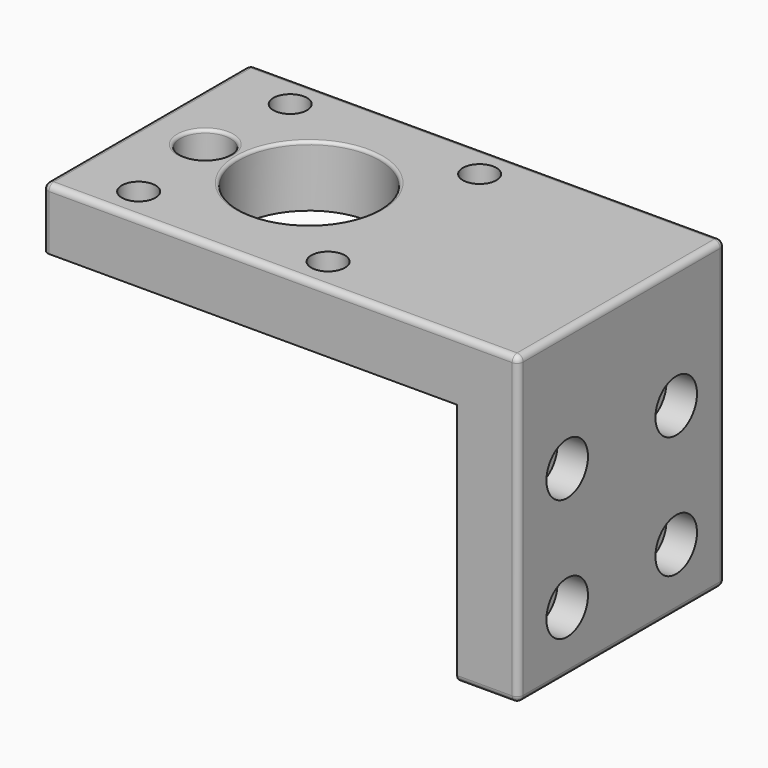
from build123d import *

# Parameters (mm, degrees)
F0_W     = 42.3
F0_H     = 42.3
F0_R     = 2.75
F0_R_2   = 4.1
F0_R_3   = 11.5
F0_W_2   = 20
F0_W_3   = 5.5
F0_W_4   = 10
F0_R_4   = 1.55
F1_DEPTH = 10
F2_DEPTH = 40
F3_R     = 2.5
F4_DEPTH = 77.801
F3_R_2   = 4.25
F5_DEPTH = 5
F7_R     = 1
F8_R     = 0.5
F6_R     = 2.75
F6_R_2   = 1.55
F9_DEPTH = 3


with BuildPart() as f1:
    # F0 (on Top) → F1 (new body)
    with BuildSketch(Plane.XY):
        Rectangle(F0_W, F0_H)
        with Locations((-15.5, -15.5)):
            Circle(F0_R, mode=Mode.SUBTRACT)
        with Locations((15.5, -15.5)):
            Circle(F0_R, mode=Mode.SUBTRACT)
        with Locations((-17, 0)):
            Circle(F0_R_2, mode=Mode.SUBTRACT)
        Circle(F0_R_3, mode=Mode.SUBTRACT)
        with Locations((-15.5, 15.5)):
            Circle(F0_R, mode=Mode.SUBTRACT)
        with Locations((15.5, 15.5)):
            Circle(F0_R, mode=Mode.SUBTRACT)
        with Locations((31.15, 0)):
            Rectangle(F0_W_2, F0_H)
        with Locations((-23.9, 0)):
            Rectangle(F0_W_3, F0_H)
        with Locations((46.15, 0)):
            Rectangle(F0_W_4, F0_H)
        with Locations((-15.5, 15.5)):
            Circle(F0_R)
        with Locations((-15.5, 15.5)):
            Circle(F0_R_4, mode=Mode.SUBTRACT)
        with Locations((15.5, -15.5)):
            Circle(F0_R)
        with Locations((15.5, -15.5)):
            Circle(F0_R_4, mode=Mode.SUBTRACT)
        with Locations((-15.5, -15.5)):
            Circle(F0_R)
        with Locations((-15.5, -15.5)):
            Circle(F0_R_4, mode=Mode.SUBTRACT)
        with Locations((15.5, 15.5)):
            Circle(F0_R)
        with Locations((15.5, 15.5)):
            Circle(F0_R_4, mode=Mode.SUBTRACT)
    extrude(amount=F1_DEPTH)

    # F0 (on Top) → F2 (join)
    with BuildSketch(Plane.XY):
        with Locations((46.15, 0)):
            Rectangle(F0_W_4, F0_H)
    extrude(amount=-F2_DEPTH)

    # F3 (on face) → F4 (cut, through all)
    with BuildSketch(Plane.YZ.offset(51.15)):
        with Locations((-11.15, -10)):
            Circle(F3_R)
        with Locations((11.15, -10)):
            Circle(F3_R)
        with Locations((11.15, -30)):
            Circle(F3_R)
        with Locations((-11.15, -30)):
            Circle(F3_R)
    extrude(amount=-F4_DEPTH, mode=Mode.SUBTRACT)

    # F3 (on face) → F5 (cut)
    with BuildSketch(Plane.YZ.offset(51.15)):
        with Locations((-11.15, -10)):
            Circle(F3_R_2)
        with Locations((-11.15, -10)):
            Circle(F3_R, mode=Mode.SUBTRACT)
        with Locations((11.15, -10)):
            Circle(F3_R_2)
        with Locations((11.15, -10)):
            Circle(F3_R, mode=Mode.SUBTRACT)
        with Locations((11.15, -30)):
            Circle(F3_R_2)
        with Locations((11.15, -30)):
            Circle(F3_R, mode=Mode.SUBTRACT)
        with Locations((-11.15, -30)):
            Circle(F3_R_2)
        with Locations((-11.15, -30)):
            Circle(F3_R, mode=Mode.SUBTRACT)
    extrude(amount=-F5_DEPTH, mode=Mode.SUBTRACT)

    # F7
    f7_edges = [f1.edges().sort_by_distance(p)[0] for p in [
        (51.15, -21.15, -15),
        (51.15, 21.15, -15),
        (51.15, 0, -40),
        (51.15, 0, 10),
        (12.25, 21.15, 10),
        (12.25, -21.15, 10),
        (-26.65, 0, 10),
        (-26.65, 21.15, 5),
        (-26.65, -21.15, 5),
        (46.15, 21.15, -40),
        (46.15, -21.15, -40),
    ]]
    fillet(f7_edges, radius=F7_R)

    # F8
    f8_edges = [f1.edges().sort_by_distance(p)[0] for p in [
        (-21.1, 0, 10),
        (-11.5, 0, 10),
    ]]
    fillet(f8_edges, radius=F8_R)

    # F6 (on face) → F9 (cut)
    with BuildSketch(Plane.XY.offset(10)):
        with Locations((15.5, 15.5)):
            Circle(F6_R)
        with Locations((15.5, 15.5)):
            Circle(F6_R_2, mode=Mode.SUBTRACT)
        with Locations((15.5, -15.5)):
            Circle(F6_R)
        with Locations((15.5, -15.5)):
            Circle(F6_R_2, mode=Mode.SUBTRACT)
        with Locations((-15.5, -15.5)):
            Circle(F6_R)
        with Locations((-15.5, -15.5)):
            Circle(F6_R_2, mode=Mode.SUBTRACT)
        with Locations((-15.5, 15.5)):
            Circle(F6_R)
        with Locations((-15.5, 15.5)):
            Circle(F6_R_2, mode=Mode.SUBTRACT)
    extrude(amount=-F9_DEPTH, mode=Mode.SUBTRACT)


solid = f1.part
